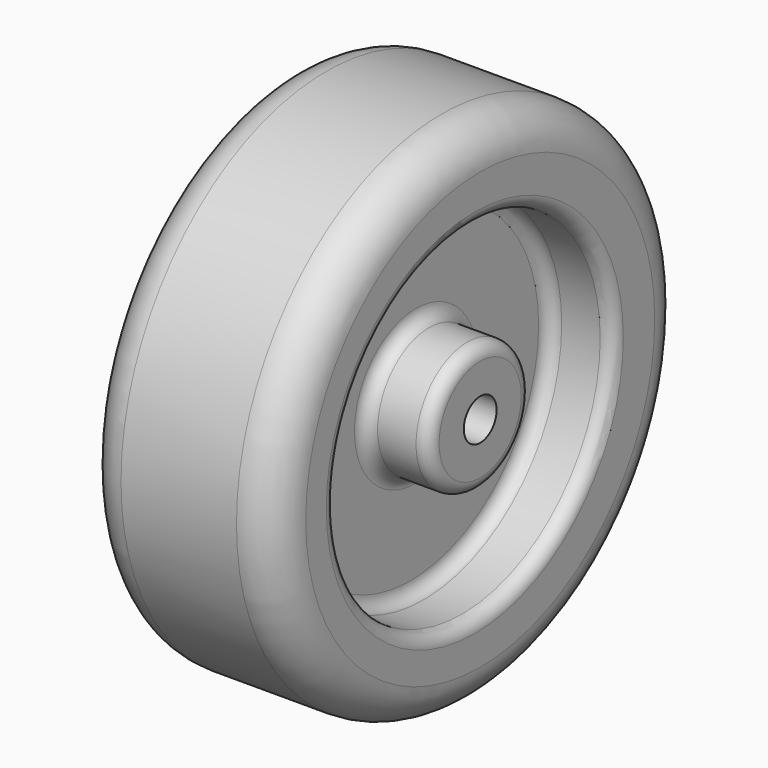
from build123d import *

# Parameters (mm, degrees)
F0_R     = 100
F1_DEPTH = 75
F2_R     = 15
F3_R     = 8
F4_DEPTH = 75.001
F5_R     = 67.34975
F5_R_2   = 25
F6_DEPTH = 25
F7_R     = 70
F7_R_2   = 25
F8_DEPTH = 25
F9_R     = 5


with BuildPart() as f1:
    # F0 (on Right) → F1 (new body)
    with BuildSketch(Plane.YZ):
        Circle(F0_R)
    extrude(amount=F1_DEPTH)

    # F2
    f2_edges = [f1.edges().sort_by_distance(p)[0] for p in [
        (75, -100, 0),
        (0, -100, 0),
    ]]
    fillet(f2_edges, radius=F2_R)

    # F3 (on face) → F4 (cut, through all)
    with BuildSketch(Plane.YZ.offset(75)):
        Circle(F3_R)
    extrude(amount=-F4_DEPTH, mode=Mode.SUBTRACT)

    # F5 (on face) → F6 (cut)
    with BuildSketch(Plane.YZ.offset(75)):
        with Locations((-2.65025, 0)):
            Circle(F5_R)
        Circle(F5_R_2, mode=Mode.SUBTRACT)
    extrude(amount=-F6_DEPTH, mode=Mode.SUBTRACT)

    # F7 (on face) → F8 (cut)
    with BuildSketch(Plane(origin=(0, 0, 0), x_dir=(0, -1, 0), z_dir=(-1, 0, 0))):
        Circle(F7_R)
        Circle(F7_R_2, mode=Mode.SUBTRACT)
    extrude(amount=-F8_DEPTH, mode=Mode.SUBTRACT)

    # F9
    f9_edges = [f1.edges().sort_by_distance(p)[0] for p in [
        (75, -70, 0),
        (50, -70, 0),
        (50, -25, 0),
        (75, -25, 0),
        (0, 70, 0),
        (25, 70, 0),
        (25, 25, 0),
        (0, 25, 0),
    ]]
    fillet(f9_edges, radius=F9_R)


solid = f1.part
